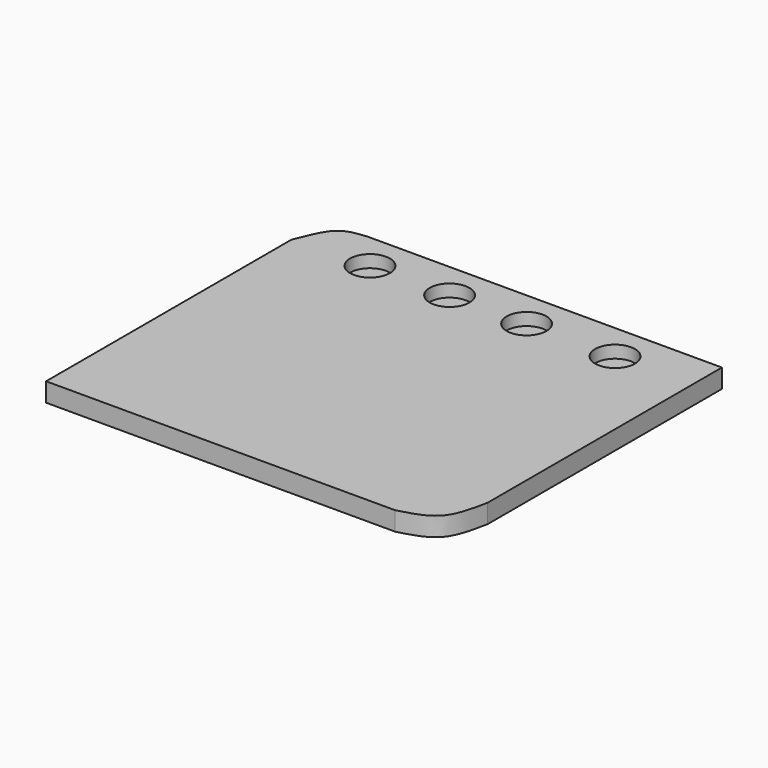
from build123d import *

# Parameters (mm, degrees)
F0_W     = 400
F0_H     = 350
F1_DEPTH = 19
F4_DEPTH = 19.001
F2_R     = 20
F5_DEPTH = 12.5
F6_DEPTH = 19.0010001


with BuildPart() as f1:
    # F0 (on Top) → F1 (new body)
    with BuildSketch(Plane.XY):
        Rectangle(F0_W, F0_H)
    extrude(amount=F1_DEPTH)

    # F3 (on face) → F4 (cut, through all)
    with BuildSketch(Plane.XY.offset(19)):
        with BuildLine():
            add(Edge.make_bspline(
                [(151.2464284897, -175), (164.2430137507, -171.5517342548), (191.0711310333, -164.4336739354), (196.9625921733, -134.8047557028), (200, -119.5292398334)],
                knots=[0, 0, 0, 0, 0.484438961, 1, 1, 1, 1], degree=3))
            Line((151.2464284897, -175), (200, -175))
            Line((200, -175), (200, -119.5292398334))
        make_face()
    extrude(amount=-F4_DEPTH, mode=Mode.SUBTRACT)

    # F2 (on face) → F5 (cut, symmetric)
    with BuildSketch(Plane.XY.offset(19)):
        with Locations((122.5676462054, 137.3537778854)):
            Circle(F2_R)
        with Locations((33.6000025272, 137.3537778854)):
            Circle(F2_R)
        with Locations((-43.9001172781, 137.3537778854)):
            Circle(F2_R)
        with Locations((-123.9853724837, 137.3537778854)):
            Circle(F2_R)
    extrude(amount=F5_DEPTH, both=True, mode=Mode.SUBTRACT)

    # F2 (on face) → F6 (cut, through all)
    with BuildSketch(Plane.XY.offset(19)):
        with BuildLine():
            add(Edge.make_bspline(
                [(-157.191619277, 175), (-167.0547662133, 173.6002362151), (-188.1240063271, 173.8063038374), (-199.1158279923, 132.3396944698), (-200, 134.5333755016)],
                knots=[0, 0, 0, 0, 0.4262547571, 0.869833783, 0.869833783, 0.869833783, 0.869833783], degree=3))
            Line((-157.191619277, 175), (-200, 175))
            Line((-200, 175), (-200, 137.3537778854))
            Line((-200, 137.3537778854), (-200, 134.5333755016))
        make_face()
    extrude(amount=-F6_DEPTH, mode=Mode.SUBTRACT)


solid = f1.part
